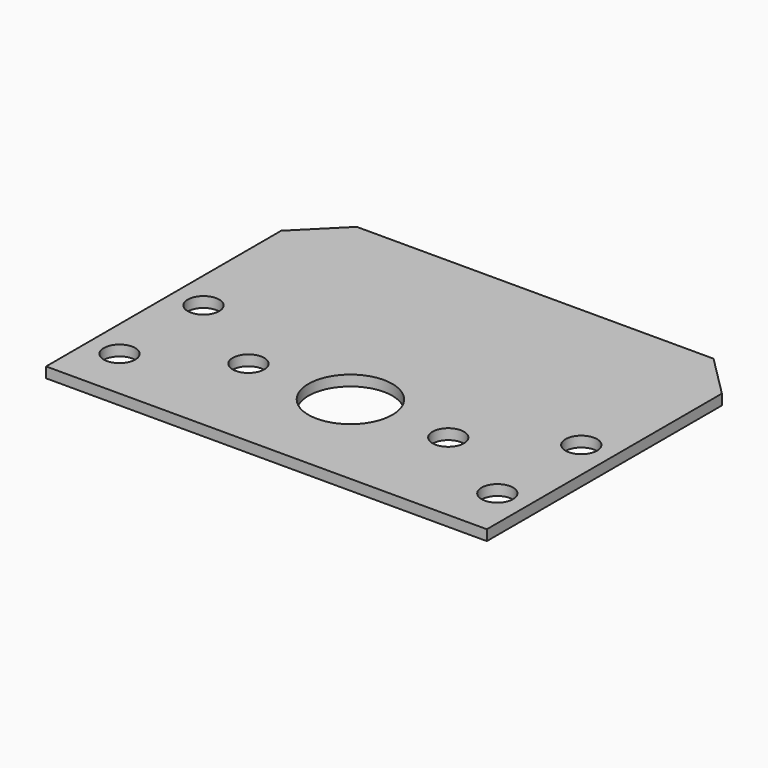
from build123d import *

# Parameters (mm, degrees)
CYLINDER1671_R              = 1.5
CYLINDER1671_DEPTH          = 20
CYLINDER1670_R              = 1.5
CYLINDER1670_DEPTH          = 20
COMPOUND820_ROLL_ANGLE      = 90
COMPOUND820_PLACEMENT_ANGLE = 90
CYLINDER1622_R              = 1.5
CYLINDER1622_DEPTH          = 60
CYLINDER1623_R              = 1.5
CYLINDER1623_DEPTH          = 60
CYLINDER1624_R              = 1.5
CYLINDER1624_DEPTH          = 60
CYLINDER1621_R              = 1.5
CYLINDER1621_DEPTH          = 60
CYLINDER1629_R              = 4
CYLINDER1629_DEPTH          = 48
BOX656_W                    = 42
BOX656_H                    = 32
BOX656_DEPTH                = 1
CHAMFER046_SIZE             = 4


with BuildPart() as obj1:
    # Cylinder1671 → Cylinder1671 (new body)
    with BuildSketch(Plane(origin=(15.75, 114, 58.525), x_dir=(-1, 0, 0), z_dir=(0, 1, 0))):
        Circle(CYLINDER1671_R)
    extrude(amount=CYLINDER1671_DEPTH)


with BuildPart() as compound821:
    # Cylinder1670 → Cylinder1670 (new body)
    with BuildSketch(Plane(origin=(15.75, 114, 39.48), x_dir=(-1, 0, 0), z_dir=(0, 1, 0))):
        Circle(CYLINDER1670_R)
    extrude(amount=CYLINDER1670_DEPTH)

    # Compound820: union obj1
    add(obj1.part)


with BuildPart() as compound821_1:
    # Compound820 roll: moved
    add(compound821.part.rotate(Axis((0, 0, 0), (1, 0, 0)), COMPOUND820_ROLL_ANGLE))


with BuildPart() as compound821_2:
    # Compound820 placement: moved
    add(compound821_1.part.moved(Location((-49, 0, -96))).rotate(Axis((-49, 0, -96), (0, 0, 1)), COMPOUND820_PLACEMENT_ANGLE))


with BuildPart() as compound821_3:
    # Compound821 placement: moved
    add(compound821_2.part.moved(Location((0, 74, -80))))


with BuildPart() as obj2:
    # Cylinder1622 → Cylinder1622 (new body)
    with BuildSketch(Plane(origin=(18, 85, -57), x_dir=(1, 0, 0), z_dir=(0, 0, 1))):
        Circle(CYLINDER1622_R)
    extrude(amount=CYLINDER1622_DEPTH)


with BuildPart() as obj3:
    # Cylinder1623 → Cylinder1623 (new body)
    with BuildSketch(Plane(origin=(-18, 85, -57), x_dir=(1, 0, 0), z_dir=(0, 0, 1))):
        Circle(CYLINDER1623_R)
    extrude(amount=CYLINDER1623_DEPTH)


with BuildPart() as obj4:
    # Cylinder1624 → Cylinder1624 (new body)
    with BuildSketch(Plane(origin=(-18, 95, -57), x_dir=(1, 0, 0), z_dir=(0, 0, 1))):
        Circle(CYLINDER1624_R)
    extrude(amount=CYLINDER1624_DEPTH)


with BuildPart() as compound806:
    # Cylinder1621 → Cylinder1621 (new body)
    with BuildSketch(Plane(origin=(18, 95, -57), x_dir=(1, 0, 0), z_dir=(0, 0, 1))):
        Circle(CYLINDER1621_R)
    extrude(amount=CYLINDER1621_DEPTH)

    # Compound806: union obj2, obj3, obj4
    add(obj2.part)
    add(obj3.part)
    add(obj4.part)


with BuildPart() as obj5:
    # Cylinder1629 → Cylinder1629 (new body)
    with BuildSketch(Plane(origin=(0, 90, -55), x_dir=(1, 0, 0), z_dir=(0, 0, 1))):
        Circle(CYLINDER1629_R)
    extrude(amount=CYLINDER1629_DEPTH)


with BuildPart() as chamfer046:
    # Box656 → Box656 (new body)
    with BuildSketch(Plane(origin=(-21, 80, -49), x_dir=(1, 0, 0), z_dir=(0, 0, 1))):
        with Locations((21, 16)):
            Rectangle(BOX656_W, BOX656_H)
    extrude(amount=BOX656_DEPTH)

    # Cut318: cut obj5
    add(obj5.part, mode=Mode.SUBTRACT)

    # Cut320: cut Compound806
    add(compound806.part, mode=Mode.SUBTRACT)

    # Cut333: cut Compound821
    add(compound821_3.part, mode=Mode.SUBTRACT)

    # Chamfer046
    chamfer046_edges = [chamfer046.edges().sort_by_distance(p)[0] for p in [
        (-21, 112, -48.5),
        (21, 112, -48.5),
    ]]
    chamfer(chamfer046_edges, length=CHAMFER046_SIZE)


solid = chamfer046.part
